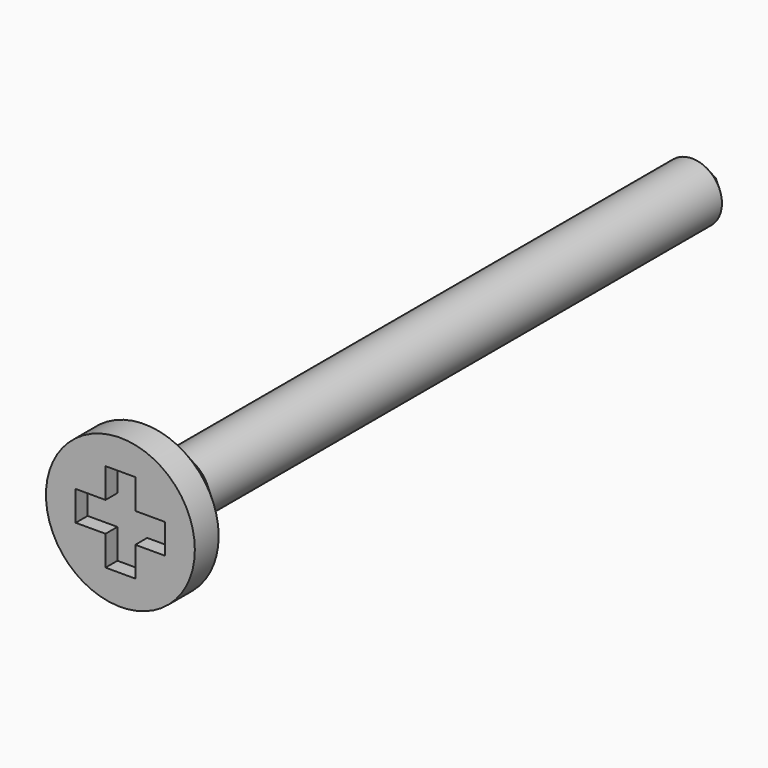
from build123d import *

# Parameters (mm, degrees)
F0_R     = 5
F1_DEPTH = 5
F2_SIZE  = 3
F3_R     = 2
F4_DEPTH = 45
F5_SIZE  = 2
F7_DEPTH = 1


with BuildPart() as f1:
    # F0 (on Front) → F1 (new body)
    with BuildSketch(Plane.XZ):
        Circle(F0_R)
    extrude(amount=F1_DEPTH)

    # F2
    f2_edges = [f1.edges().sort_by_distance(p)[0] for p in [
        (-5, 0, 0),
    ]]
    chamfer(f2_edges, length=F2_SIZE)

    # F3 (on face) → F4 (join)
    with BuildSketch(Plane(origin=(0, 0, 0), x_dir=(-1, 0, 0), z_dir=(0, 1, 0))):
        Circle(F3_R)
    extrude(amount=F4_DEPTH)

    # F5
    f5_edges = [f1.edges().sort_by_distance(p)[0] for p in [
        (2, 45, 0),
    ]]
    chamfer(f5_edges, length=F5_SIZE)

    # F6 (on face) → F7 (cut)
    with BuildSketch(Plane.XZ.offset(5)):
        Polygon((1, 3), (-1, 3), (-1, 1), (-3, 1), (-3, -1), (-1, -1), (-1, -3), (1, -3), (1, -1), (3, -1), (3, 1), (1, 1), align=None)
    extrude(amount=-F7_DEPTH, mode=Mode.SUBTRACT)


solid = f1.part
